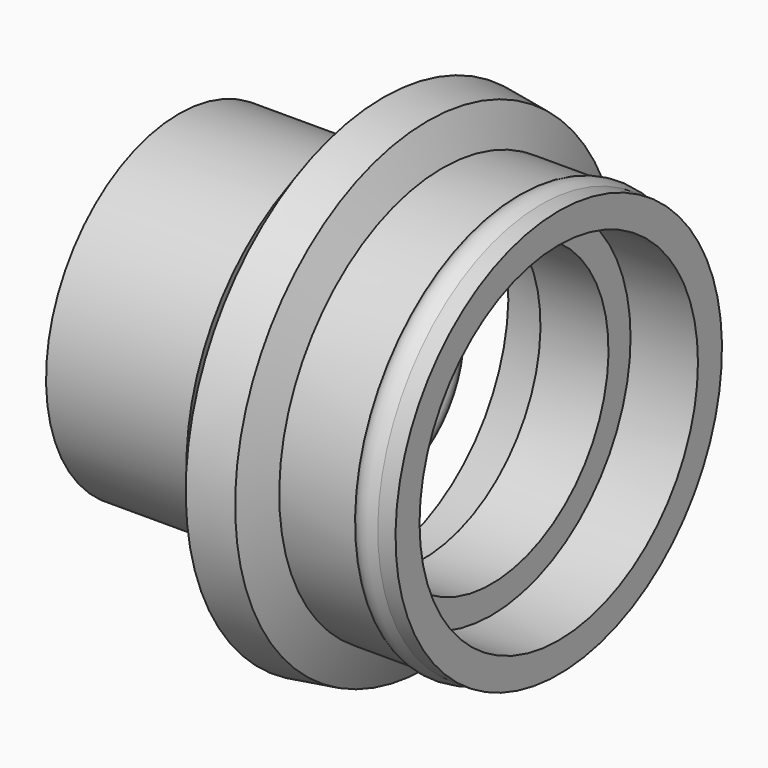
from build123d import *


with BuildPart() as f1:
    # F0 (on Front) → F1 (revolve)
    with BuildSketch(Plane.XZ):
        with BuildLine():
            Line((-18.3266140521, 49.1733886302), (-65.5040368438, 49.1733886302))
            Line((-65.5040368438, 49.1733886302), (-65.5040368438, 12.7016128972))
            Line((-65.5040368438, 12.7016128972), (-18.3266140521, 12.7016128972))
            Line((-18.3266140521, 12.7016128972), (-18.3266140521, 20.0899827203))
            add(Edge.make_bspline(
                [(-18.3266140521, 38.8196949347), (-53.3607228796, 54.8786279871), (-53.3607228796, 39.8137804783), (-53.3607228796, 24.7489329695), (-18.3266140521, 20.0899827203)],
                knots=[1.306845085, 1.306845085, 1.306845085, 3.2656693478, 3.2656693478, 5.2244936107, 5.2244936107, 5.2244936107], degree=2, weights=[1, 0.5575106738, 1, 0.5575106738, 1]))
            Line((-18.3266140521, 38.8196949347), (-18.3266140521, 49.1733886302))
        make_face()
    revolve(axis=Axis((-1.1794343591, 0, 0), (1, 0, 0)))


with BuildPart() as f1b:
    # F0 (on Front) → F1, piece 2 (revolve)
    with BuildSketch(Plane.XZ):
        Polygon((4.9868965363, 48.4716210926), (6.8951612338, 50.9181142302), (6.8951612338, 51.5322610736), (6.713709794, 51.5322610736), (6.713709794, 60.4233890772), (12.5606917486, 60.4233890772), (8.1713695396, 71.2624064755), (-4.9868965363, 73.1009628212), (-13.1582660759, 62.6248483026), (-8.1713695396, 50.3101774383), align=None)
    revolve(axis=Axis((-1.1794343591, 0, 0), (1, 0, 0)))


with BuildPart() as f1c:
    # F0 (on Front) → F1, piece 3 (revolve)
    with BuildSketch(Plane.XZ):
        Polygon((27.0362924784, 51.5322610736), (7.3741957843, 51.5322610736), (6.8951612338, 50.9181142302), (6.8951612338, 43.3669388294), (27.0362924784, 43.3669388294), align=None)
    revolve(axis=Axis((-1.1794343591, 0, 0), (1, 0, 0)))


with BuildPart() as f1d:
    # F0 (on Front) → F1, piece 4 (revolve)
    with BuildSketch(Plane.XZ):
        with BuildLine():
            add(Edge.make_bspline(
                [(35.0201651454, 60.4233890772), (31.7196699468, 55.9778250754), (40.2727613816, 51.5322610736)],
                knots=[3.1415926536, 3.1415926536, 3.1415926536, 4.9921973544, 4.9921973544, 4.9921973544], degree=2, weights=[1, 0.6015931016, 1]))
            Line((40.2727613816, 51.5322610736), (46.9959676266, 51.5322610736))
            Line((46.9959676266, 51.5322610736), (46.9959676266, 55.210229077))
            add(Edge.make_bspline(
                [(46.9959676266, 55.210229077), (45.5334424691, 58.4534576576), (41.7433713904, 60.4233890772)],
                knots=[0.7869355084, 0.7869355084, 0.7869355084, 1.8506047008, 1.8506047008, 1.8506047008], degree=2, weights=[1, 0.8618781695, 1]))
            Line((41.7433713904, 60.4233890772), (35.0201651454, 60.4233890772))
        make_face()
        with BuildLine():
            Line((12.5606917486, 60.4233890772), (12.6341715489, 60.2419376373))
            Line((12.6341715489, 60.2419376373), (27.0362924784, 60.2419376373))
            Line((27.0362924784, 60.2419376373), (27.0362924784, 51.5322610736))
            Line((27.0362924784, 51.5322610736), (40.2727613816, 51.5322610736))
            add(Edge.make_bspline(
                [(35.0201651454, 60.4233890772), (31.7196699468, 55.9778250754), (40.2727613816, 51.5322610736)],
                knots=[3.1415926536, 3.1415926536, 3.1415926536, 4.9921973544, 4.9921973544, 4.9921973544], degree=2, weights=[1, 0.6015931016, 1]))
            Line((35.0201651454, 60.4233890772), (12.5606917486, 60.4233890772))
        make_face()
        with BuildLine():
            Line((46.9959676266, 60.4233890772), (41.7433713904, 60.4233890772))
            add(Edge.make_bspline(
                [(46.9959676266, 55.210229077), (45.5334424691, 58.4534576576), (41.7433713904, 60.4233890772)],
                knots=[0.7869355084, 0.7869355084, 0.7869355084, 1.8506047008, 1.8506047008, 1.8506047008], degree=2, weights=[1, 0.8618781695, 1]))
            Line((46.9959676266, 55.210229077), (46.9959676266, 60.4233890772))
        make_face()
        with BuildLine():
            add(Edge.make_bspline(
                [(41.7433713904, 60.4233890772), (36.8921647871, 62.9448574381), (35.0201651454, 60.4233890772)],
                knots=[1.8506047008, 1.8506047008, 1.8506047008, 3.1415926536, 3.1415926536, 3.1415926536], degree=2, weights=[1, 0.7988026916, 1]))
            Line((35.0201651454, 60.4233890772), (41.7433713904, 60.4233890772))
        make_face()
    revolve(axis=Axis((-1.1794343591, 0, 0), (1, 0, 0)))


with BuildPart() as f1e:
    # F0 (on Front) → F1, piece 5 (revolve)
    with BuildSketch(Plane.XZ):
        with BuildLine():
            add(Edge.make_bspline(
                [(-2.7217746247, 23.5887113959), (-0.3134487644, 30.562821131), (-18.3266140521, 38.8196949347)],
                knots=[0, 0, 0, 1.306845085, 1.306845085, 1.306845085], degree=2, weights=[1, 0.7940078638, 1]))
            Line((-18.3266140521, 38.8196949347), (-18.3266140521, 20.0899827203))
            add(Edge.make_bspline(
                [(-18.3266140521, 20.0899827203), (-4.5620681697, 18.2595284397), (-2.7217746247, 23.5887113959)],
                knots=[5.2244936107, 5.2244936107, 5.2244936107, 6.2831853072, 6.2831853072, 6.2831853072], degree=2, weights=[1, 0.8631375814, 1]))
        make_face()
    revolve(axis=Axis((-1.1794343591, 0, 0), (1, 0, 0)))


solid = Compound([f1.part, f1b.part, f1c.part, f1d.part, f1e.part])
